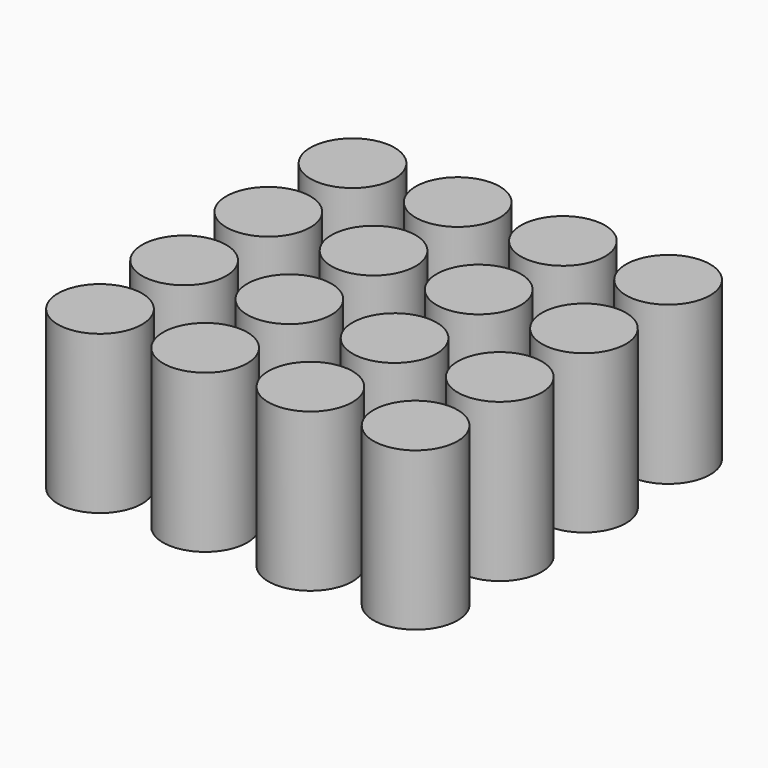
from build123d import *

# Parameters (mm, degrees)
CYLINDER001_R     = 16
CYLINDER001_DEPTH = 60
ARRAY001_X_COUNT  = 4
ARRAY001_X_PITCH  = 40
ARRAY001_Y_COUNT  = 4
ARRAY001_Y_PITCH  = 40


with BuildPart() as part:
    # Cylinder001 → Cylinder001 (new body)
    with BuildSketch(Plane.XY.offset(1)):
        Circle(CYLINDER001_R)
    extrude(amount=CYLINDER001_DEPTH)

    # Array001 X: part ×4


with BuildPart() as part_1:
    add(part.part)
    with Locations(*[(i * ARRAY001_X_PITCH, 0, 0) for i in range(1, ARRAY001_X_COUNT)]):
        add(part.part)

    # Array001 Y: part ×4


with BuildPart() as part_2:
    add(part_1.part)
    with Locations(*[(0, i * ARRAY001_Y_PITCH, 0) for i in range(1, ARRAY001_Y_COUNT)]):
        add(part_1.part)


solid = part_2.part
